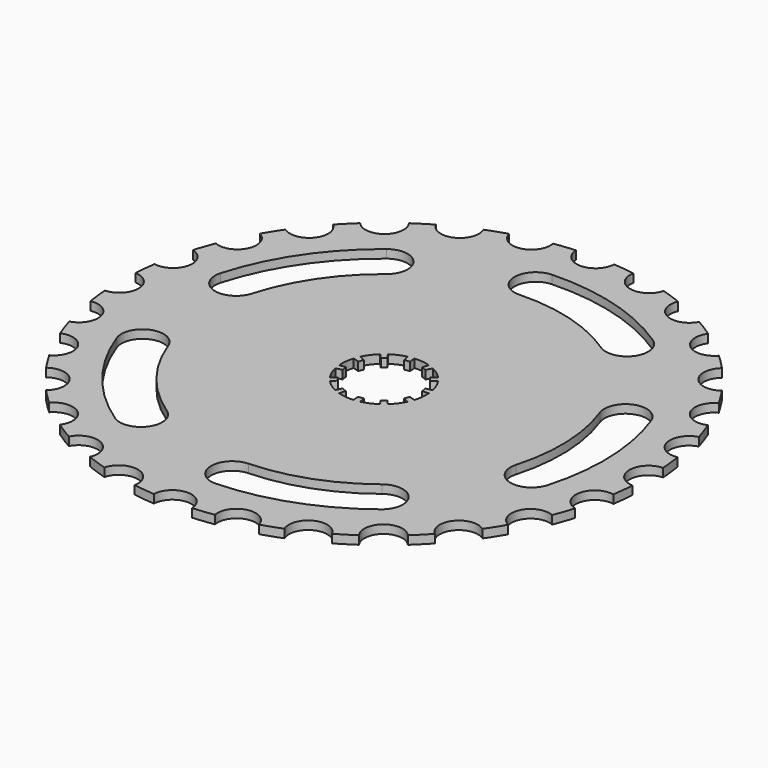
from build123d import *

# Parameters (mm, degrees)
F1_DEPTH = 2
F2_R     = 10
F3_DEPTH = 2
F5_DEPTH = 2


with BuildPart() as f1:
    # F0 (on Top) → F1 (new body)
    with BuildSketch(Plane.XY):
        with BuildLine():
            ThreePointArc((62.337789502, -4.5), (57.9970773662, 0), (62.337789502, 4.5))
            ThreePointArc((62.337789502, 4.5), (62.1070131183, 6.9977797565), (61.7761951721, 9.4842875359))
            ThreePointArc((61.7761951721, 9.4842875359), (56.5429695493, 12.9055638223), (59.7735067664, 18.2586387456))
            ThreePointArc((59.7735067664, 18.2586387456), (58.9927081443, 20.6424413722), (58.1168844612, 22.9929932919))
            ThreePointArc((58.1168844612, 22.9929932919), (52.2535611363, 25.1639887856), (54.2119308092, 31.101713103))
            ThreePointArc((54.2119308092, 31.101713103), (52.9202624518, 33.2520047822), (51.5433504885, 35.3487343538))
            ThreePointArc((51.5433504885, 35.3487343538), (45.3439409761, 36.1605862755), (45.9319422718, 42.385217696))
            ThreePointArc((45.9319422718, 42.385217696), (44.1941738242, 44.1941738242), (42.385217696, 45.9319422718))
            ThreePointArc((42.385217696, 45.9319422718), (36.1605862755, 45.3439409761), (35.3487343538, 51.5433504885))
            ThreePointArc((35.3487343538, 51.5433504885), (33.2520047822, 52.9202624518), (31.101713103, 54.2119308092))
            ThreePointArc((31.101713103, 54.2119308092), (25.1639887856, 52.2535611363), (22.9929932919, 58.1168844612))
            ThreePointArc((22.9929932919, 58.1168844612), (20.6424413722, 58.9927081443), (18.2586387456, 59.7735067664))
            ThreePointArc((18.2586387456, 59.7735067664), (12.9055638223, 56.5429695493), (9.4842875359, 61.7761951721))
            ThreePointArc((9.4842875359, 61.7761951721), (6.9977797565, 62.1070131183), (4.5, 62.337789502))
            ThreePointArc((4.5, 62.337789502), (0, 57.9970773662), (-4.5, 62.337789502))
            ThreePointArc((-4.5, 62.337789502), (-6.9977797565, 62.1070131183), (-9.4842875359, 61.7761951721))
            ThreePointArc((-9.4842875359, 61.7761951721), (-12.9055638223, 56.5429695493), (-18.2586387456, 59.7735067664))
            ThreePointArc((-18.2586387456, 59.7735067664), (-20.6424413722, 58.9927081443), (-22.9929932919, 58.1168844612))
            ThreePointArc((-22.9929932919, 58.1168844612), (-25.1639887856, 52.2535611363), (-31.101713103, 54.2119308092))
            ThreePointArc((-31.101713103, 54.2119308092), (-33.2520047822, 52.9202624518), (-35.3487343538, 51.5433504885))
            ThreePointArc((-35.3487343538, 51.5433504885), (-36.1605862755, 45.3439409761), (-42.385217696, 45.9319422718))
            ThreePointArc((-42.385217696, 45.9319422718), (-44.1941738242, 44.1941738242), (-45.9319422718, 42.385217696))
            ThreePointArc((-45.9319422718, 42.385217696), (-45.3439409761, 36.1605862755), (-51.5433504885, 35.3487343538))
            ThreePointArc((-51.5433504885, 35.3487343538), (-52.9202624518, 33.2520047822), (-54.2119308092, 31.101713103))
            ThreePointArc((-54.2119308092, 31.101713103), (-52.2535611363, 25.1639887856), (-58.1168844612, 22.9929932919))
            ThreePointArc((-58.1168844612, 22.9929932919), (-58.9927081443, 20.6424413722), (-59.7735067664, 18.2586387456))
            ThreePointArc((-59.7735067664, 18.2586387456), (-56.5429695493, 12.9055638223), (-61.7761951721, 9.4842875359))
            ThreePointArc((-61.7761951721, 9.4842875359), (-62.1070131183, 6.9977797565), (-62.337789502, 4.5))
            ThreePointArc((-62.337789502, 4.5), (-57.9970773662, 0), (-62.337789502, -4.5))
            ThreePointArc((-62.337789502, -4.5), (-62.1070131183, -6.9977797565), (-61.7761951721, -9.4842875359))
            ThreePointArc((-61.7761951721, -9.4842875359), (-56.5429695493, -12.9055638223), (-59.7735067664, -18.2586387456))
            ThreePointArc((-59.7735067664, -18.2586387456), (-58.9927081443, -20.6424413722), (-58.1168844612, -22.9929932919))
            ThreePointArc((-58.1168844612, -22.9929932919), (-52.2535611363, -25.1639887856), (-54.2119308092, -31.101713103))
            ThreePointArc((-54.2119308092, -31.101713103), (-52.9202624518, -33.2520047822), (-51.5433504885, -35.3487343538))
            ThreePointArc((-51.5433504885, -35.3487343538), (-45.3439409761, -36.1605862755), (-45.9319422718, -42.385217696))
            ThreePointArc((-45.9319422718, -42.385217696), (-44.1941738242, -44.1941738242), (-42.385217696, -45.9319422718))
            ThreePointArc((-42.385217696, -45.9319422718), (-36.1605862755, -45.3439409761), (-35.3487343538, -51.5433504885))
            ThreePointArc((-35.3487343538, -51.5433504885), (-33.2520047822, -52.9202624518), (-31.101713103, -54.2119308092))
            ThreePointArc((-31.101713103, -54.2119308092), (-25.1639887856, -52.2535611363), (-22.9929932919, -58.1168844612))
            ThreePointArc((-22.9929932919, -58.1168844612), (-20.6424413722, -58.9927081443), (-18.2586387456, -59.7735067664))
            ThreePointArc((-18.2586387456, -59.7735067664), (-12.9055638223, -56.5429695493), (-9.4842875359, -61.7761951721))
            ThreePointArc((-9.4842875359, -61.7761951721), (-6.9977797565, -62.1070131183), (-4.5, -62.337789502))
            ThreePointArc((-4.5, -62.337789502), (0, -57.9970773662), (4.5, -62.337789502))
            ThreePointArc((4.5, -62.337789502), (6.9977797565, -62.1070131183), (9.4842875359, -61.7761951721))
            ThreePointArc((9.4842875359, -61.7761951721), (12.9055638223, -56.5429695493), (18.2586387456, -59.7735067664))
            ThreePointArc((18.2586387456, -59.7735067664), (20.6424413722, -58.9927081443), (22.9929932919, -58.1168844612))
            ThreePointArc((22.9929932919, -58.1168844612), (25.1639887856, -52.2535611363), (31.101713103, -54.2119308092))
            ThreePointArc((31.101713103, -54.2119308092), (33.2520047822, -52.9202624518), (35.3487343538, -51.5433504885))
            ThreePointArc((35.3487343538, -51.5433504885), (36.1605862755, -45.3439409761), (42.385217696, -45.9319422718))
            ThreePointArc((42.385217696, -45.9319422718), (44.1941738242, -44.1941738242), (45.9319422718, -42.385217696))
            ThreePointArc((45.9319422718, -42.385217696), (45.3439409761, -36.1605862755), (51.5433504885, -35.3487343538))
            ThreePointArc((51.5433504885, -35.3487343538), (52.9202624518, -33.2520047822), (54.2119308092, -31.101713103))
            ThreePointArc((54.2119308092, -31.101713103), (52.2535611363, -25.1639887856), (58.1168844612, -22.9929932919))
            ThreePointArc((58.1168844612, -22.9929932919), (58.9927081443, -20.6424413722), (59.7735067664, -18.2586387456))
            ThreePointArc((59.7735067664, -18.2586387456), (56.5429695493, -12.9055638223), (61.7761951721, -9.4842875359))
            ThreePointArc((61.7761951721, -9.4842875359), (62.1070131183, -6.9977797565), (62.337789502, -4.5))
        make_face()
    extrude(amount=F1_DEPTH)

    # F2 (on Top) → F3 (cut)
    with BuildSketch(Plane.XY):
        Circle(F2_R)
        with BuildLine():
            ThreePointArc((28.9957427126, 43.1653437904), (14.2377652525, 50.0128587527), (-1.9139038709, 51.9647666402))
            ThreePointArc((-1.9139038709, 51.9647666407), (-6.7264868297, 46.7841252452), (-1.5458454342, 41.9715422864))
            ThreePointArc((-1.5458454342, 41.9715422863), (11.4997334732, 40.3950013002), (23.4196383448, 34.8643161384))
            ThreePointArc((23.4196383448, 34.8643161384), (30.358204355, 36.2267777805), (28.9957427128, 43.1653437907))
        make_face()
        with BuildLine():
            ThreePointArc((-40.3950013001, 11.4997334735), (-34.8643161382, 23.4196383451), (-25.9208687987, 33.0470658413))
            ThreePointArc((-25.9208687988, 33.0470658414), (-25.0725120079, 40.0670580607), (-32.0925042272, 40.9154148515))
            ThreePointArc((-32.092504227, 40.9154148512), (-43.1653437901, 28.995742713), (-50.0128587526, 14.2377652529))
            ThreePointArc((-50.0128587529, 14.237765253), (-46.5729459163, 8.0598206369), (-40.3950013001, 11.4997334735))
        make_face()
        with BuildLine():
            ThreePointArc((-23.4196383452, -34.8643161382), (-33.0470658414, -25.9208687986), (-39.4396162807, -14.4401062197))
            ThreePointArc((-39.4396162805, -14.4401062196), (-45.8538689593, -11.4639740694), (-48.8300011095, -17.8782267482))
            ThreePointArc((-48.8300011094, -17.8782267482), (-40.9154148513, -32.0925042268), (-28.9957427131, -43.1653437901))
            ThreePointArc((-28.9957427131, -43.1653437901), (-22.0571767029, -41.802882148), (-23.419638345, -34.8643161379))
        make_face()
        with BuildLine():
            ThreePointArc((25.9208687988, -33.0470658412), (14.4401062199, -39.4396162806), (1.545845434, -41.9715422863))
            ThreePointArc((1.545845434, -41.9715422859), (-3.2667375248, -47.1521836813), (1.9139038707, -51.9647666401))
            ThreePointArc((1.9139038707, -51.9647666402), (17.8782267485, -48.8300011093), (32.0925042271, -40.915414851))
            ThreePointArc((32.0925042271, -40.9154148509), (32.9408610178, -33.8954226316), (25.9208687985, -33.0470658409))
        make_face()
        with BuildLine():
            ThreePointArc((39.4396162805, 14.4401062202), (41.9715422863, 1.5458454344), (40.3950013003, -11.4997334731))
            ThreePointArc((40.3950012999, -11.499733473), (43.8349141366, -17.6776780891), (50.0128587527, -14.2377652524))
            ThreePointArc((50.0128587527, -14.2377652524), (51.9647666402, 1.9139038711), (48.8300011091, 17.8782267488))
            ThreePointArc((48.8300011093, 17.8782267488), (42.4157484304, 20.854358899), (39.4396162803, 14.4401062201))
        make_face()
    extrude(amount=F3_DEPTH, mode=Mode.SUBTRACT)

    # F4 (on face) → F5 (join)
    with BuildSketch(Plane.XY.offset(2)):
        with BuildLine():
            Line((-7.0098956664, -4.8074278721), (-8.2469360782, -5.6557974966))
            ThreePointArc((-8.2469360782, -5.6557974966), (-7.8183148247, -6.2348980186), (-7.3491107635, -6.7816348314))
            Line((-7.3491107635, -6.7816348314), (-6.246744149, -5.7643896067))
            ThreePointArc((-6.246744149, -5.7643896067), (-6.645567601, -5.2996633158), (-7.0098956664, -4.8074278721))
        make_face()
        with BuildLine():
            Line((-8.4744616611, -0.6584068309), (-9.9699548954, -0.7745962716))
            ThreePointArc((-9.9699548954, -0.7745962716), (-9.8883082623, -1.4904226618), (-9.7553340321, -2.1985126614))
            Line((-9.7553340321, -2.1985126614), (-8.2920339273, -1.8687357622))
            ThreePointArc((-8.2920339273, -1.8687357622), (-8.4050620229, -1.2668592625), (-8.4744616611, -0.6584068309))
        make_face()
        with BuildLine():
            Line((-7.6683024973, 3.667033789), (-9.0215323498, 4.3141573988))
            ThreePointArc((-9.0215323498, 4.3141573988), (-9.3087374864, 3.6534102437), (-9.5476234249, 2.9736992007))
            Line((-9.5476234249, 2.9736992007), (-8.1154799112, 2.5276443206))
            ThreePointArc((-8.1154799112, 2.5276443206), (-7.9124268635, 3.1053987071), (-7.6683024973, 3.667033789))
        make_face()
        with BuildLine():
            Line((-4.8074278721, 7.0098956664), (-5.6557974966, 8.2469360782))
            ThreePointArc((-5.6557974966, 8.2469360782), (-6.2348980186, 7.8183148247), (-6.7816348314, 7.3491107635))
            Line((-6.7816348314, 7.3491107635), (-5.7643896067, 6.246744149))
            ThreePointArc((-5.7643896067, 6.246744149), (-5.2996633158, 6.645567601), (-4.8074278721, 7.0098956664))
        make_face()
        with BuildLine():
            Line((-0.6584068309, 8.4744616611), (-0.7745962716, 9.9699548954))
            ThreePointArc((-0.7745962716, 9.9699548954), (-1.4904226618, 9.8883082623), (-2.1985126614, 9.7553340321))
            Line((-2.1985126614, 9.7553340321), (-1.8687357622, 8.2920339273))
            ThreePointArc((-1.8687357622, 8.2920339273), (-1.2668592625, 8.4050620229), (-0.6584068309, 8.4744616611))
        make_face()
        with BuildLine():
            Line((3.667033789, 7.6683024973), (4.3141573988, 9.0215323498))
            ThreePointArc((4.3141573988, 9.0215323498), (3.6534102437, 9.3087374864), (2.9736992007, 9.5476234249))
            Line((2.9736992007, 9.5476234249), (2.5276443206, 8.1154799112))
            ThreePointArc((2.5276443206, 8.1154799112), (3.1053987071, 7.9124268635), (3.667033789, 7.6683024973))
        make_face()
        with BuildLine():
            Line((7.3491107635, 6.7816348314), (6.246744149, 5.7643896067))
            ThreePointArc((6.246744149, 5.7643896067), (6.645567601, 5.2996633158), (7.0098956664, 4.8074278721))
            Line((7.0098956664, 4.8074278721), (8.2469360782, 5.6557974966))
            ThreePointArc((8.2469360782, 5.6557974966), (7.8183148247, 6.2348980186), (7.3491107635, 6.7816348314))
        make_face()
        with BuildLine():
            ThreePointArc((9.9699548954, 0.7745962716), (9.8883082623, 1.4904226618), (9.7553340321, 2.1985126614))
            Line((9.7553340321, 2.1985126614), (8.2920339273, 1.8687357622))
            ThreePointArc((8.2920339273, 1.8687357622), (8.4050620229, 1.2668592625), (8.4744616611, 0.6584068309))
            Line((8.4744616611, 0.6584068309), (9.9699548954, 0.7745962716))
        make_face()
        with BuildLine():
            ThreePointArc((9.0215323498, -4.3141573988), (9.3087374864, -3.6534102437), (9.5476234249, -2.9736992007))
            Line((9.5476234249, -2.9736992007), (8.1154799112, -2.5276443206))
            ThreePointArc((8.1154799112, -2.5276443206), (7.9124268635, -3.1053987071), (7.6683024973, -3.667033789))
            Line((7.6683024973, -3.667033789), (9.0215323498, -4.3141573988))
        make_face()
        with BuildLine():
            ThreePointArc((5.6557974966, -8.2469360782), (6.2348980186, -7.8183148247), (6.7816348314, -7.3491107635))
            Line((6.7816348314, -7.3491107635), (5.7643896067, -6.246744149))
            ThreePointArc((5.7643896067, -6.246744149), (5.2996633158, -6.645567601), (4.8074278721, -7.0098956664))
            Line((4.8074278721, -7.0098956664), (5.6557974966, -8.2469360782))
        make_face()
        with BuildLine():
            ThreePointArc((0.7745962716, -9.9699548954), (1.4904226618, -9.8883082623), (2.1985126614, -9.7553340321))
            Line((2.1985126614, -9.7553340321), (1.8687357622, -8.2920339273))
            ThreePointArc((1.8687357622, -8.2920339273), (1.2668592625, -8.4050620229), (0.6584068309, -8.4744616611))
            Line((0.6584068309, -8.4744616611), (0.7745962716, -9.9699548954))
        make_face()
        with BuildLine():
            ThreePointArc((-4.3141573988, -9.0215323498), (-3.6534102437, -9.3087374864), (-2.9736992007, -9.5476234249))
            Line((-2.9736992007, -9.5476234249), (-2.5276443206, -8.1154799112))
            ThreePointArc((-2.5276443206, -8.1154799112), (-3.1053987071, -7.9124268635), (-3.667033789, -7.6683024973))
            Line((-3.667033789, -7.6683024973), (-4.3141573988, -9.0215323498))
        make_face()
    extrude(amount=-F5_DEPTH)


solid = f1.part
